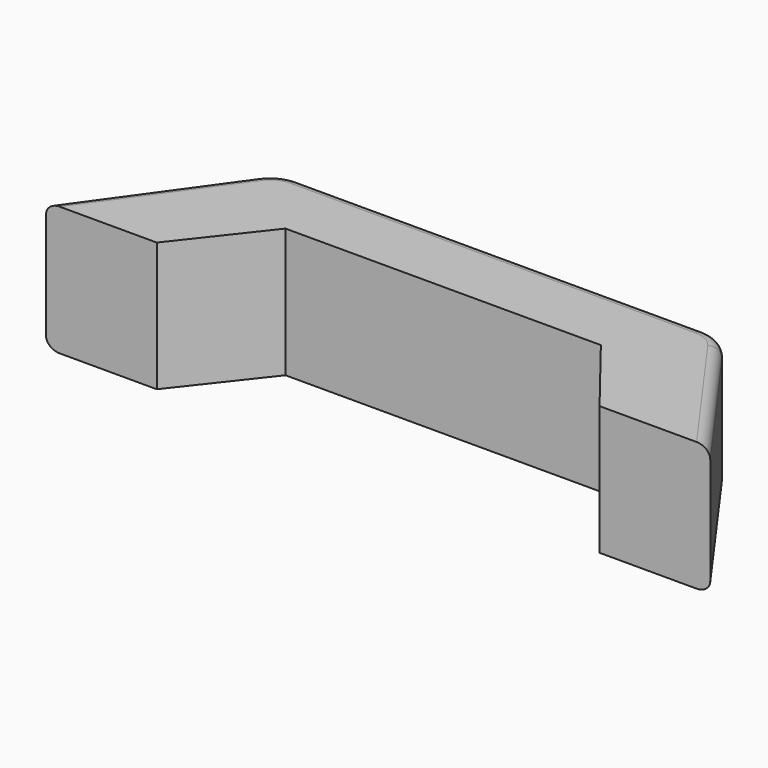
from build123d import *

# Parameters (mm, degrees)
F1_DEPTH = 3.5
F2_W     = 2.45587
F2_H     = 1.399275
F3_DEPTH = 1
F4_R     = 1
F5_R     = 0.3


with BuildPart() as f1:
    # F0 (on Top) → F1 (new body)
    with BuildSketch(Plane.XY):
        Polygon((7.557304, 47.57867), (4.557304, 43.389559), (7.557304, 43.389559), (9.283487, 45.591526), (13.557304, 45.591526), (17.831121, 45.591526), (19.557304, 43.389559), (22.557304, 43.389559), (19.557304, 47.57867), (13.557304, 47.57867), align=None)
    extrude(amount=F1_DEPTH)

    # F2 (on face) → F3 (join)
    with BuildSketch(Plane(origin=(0, 47.57867, 0), x_dir=(-1, 0, 0), z_dir=(0, 1, 0))):
        with Locations((-9.833018, 1.835053)):
            Rectangle(F2_W, F2_H)
    extrude(amount=F3_DEPTH)

    # F4
    f4_edges = [f1.edges().sort_by_distance(p)[0] for p in [
        (7.557304, 47.57867, 1.75),
        (19.557304, 47.57867, 1.75),
    ]]
    fillet(f4_edges, radius=F4_R)

    # F5
    f5_edges = [f1.edges().sort_by_distance(p)[0] for p in [
        (5.907715, 45.275233, 3.5),
        (13.557304, 47.57867, 0),
        (9.833018, 48.57867, 2.534691),
        (11.060953, 48.57867, 1.835054),
        (8.605083, 48.57867, 1.835054),
        (9.833018, 48.57867, 1.135416),
    ]]
    fillet(f5_edges, radius=F5_R)


solid = f1.part
